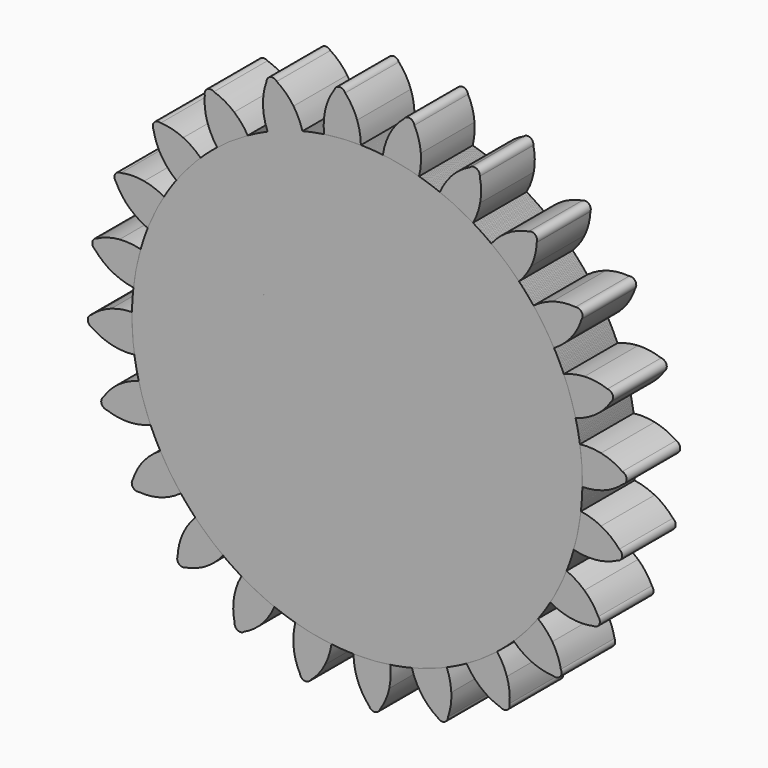
from build123d import *

# Parameters (mm, degrees)
F1_DEPTH = 16
F2_COUNT = 24


with BuildPart() as f1:
    # F0 (on Front) → F1 (new body)
    with BuildSketch(Plane.XZ):
        with BuildLine():
            ThreePointArc((-7.884268, 53.13929), (-3.513522, 53.605979), (0.880747, 53.71378))
            ThreePointArc((0.880747, 53.71378), (0.646116, 56.230422), (0, 58.674))
            ThreePointArc((0, 58.674), (-1.190465, 61.197485), (-2.856441, 63.435721))
            ThreePointArc((-2.856441, 63.435721), (-4.211908, 64.261304), (-5.44802, 63.26586))
            ThreePointArc((-5.44802, 63.26586), (-6.807595, 60.829318), (-7.658494, 58.172036))
            ThreePointArc((-7.658494, 58.172036), (-7.980131, 55.665028), (-7.884268, 53.13929))
        make_face()
        with BuildLine():
            ThreePointArc((-7.884268, 53.13929), (-35.088425, -40.678597), (53.721, 0))
            ThreePointArc((53.721, 0), (38.296609, 37.673805), (0.880747, 53.71378))
            ThreePointArc((0.880747, 53.71378), (-3.513522, 53.605979), (-7.884268, 53.13929))
        make_face()
    extrude(amount=F1_DEPTH)


with BuildPart() as f2_1:
    # F2: instance of F1
    add(f1.part.rotate(Axis((0, 0, 0), (0, 1, 0)), 1 * 360 / F2_COUNT))


with BuildPart() as f2_2:
    # F2: instance of F1
    add(f1.part.rotate(Axis((0, 0, 0), (0, 1, 0)), 2 * 360 / F2_COUNT))


with BuildPart() as f2_3:
    # F2: instance of F1
    add(f1.part.rotate(Axis((0, 0, 0), (0, 1, 0)), 3 * 360 / F2_COUNT))


with BuildPart() as f2_4:
    # F2: instance of F1
    add(f1.part.rotate(Axis((0, 0, 0), (0, 1, 0)), 4 * 360 / F2_COUNT))


with BuildPart() as f2_5:
    # F2: instance of F1
    add(f1.part.rotate(Axis((0, 0, 0), (0, 1, 0)), 5 * 360 / F2_COUNT))


with BuildPart() as f2_6:
    # F2: instance of F1
    add(f1.part.rotate(Axis((0, 0, 0), (0, 1, 0)), 6 * 360 / F2_COUNT))


with BuildPart() as f2_7:
    # F2: instance of F1
    add(f1.part.rotate(Axis((0, 0, 0), (0, 1, 0)), 7 * 360 / F2_COUNT))


with BuildPart() as f2_8:
    # F2: instance of F1
    add(f1.part.rotate(Axis((0, 0, 0), (0, 1, 0)), 8 * 360 / F2_COUNT))


with BuildPart() as f2_9:
    # F2: instance of F1
    add(f1.part.rotate(Axis((0, 0, 0), (0, 1, 0)), 9 * 360 / F2_COUNT))


with BuildPart() as f2_10:
    # F2: instance of F1
    add(f1.part.rotate(Axis((0, 0, 0), (0, 1, 0)), 10 * 360 / F2_COUNT))


with BuildPart() as f2_11:
    # F2: instance of F1
    add(f1.part.rotate(Axis((0, 0, 0), (0, 1, 0)), 11 * 360 / F2_COUNT))


with BuildPart() as f2_12:
    # F2: instance of F1
    add(f1.part.rotate(Axis((0, 0, 0), (0, 1, 0)), 12 * 360 / F2_COUNT))


with BuildPart() as f2_13:
    # F2: instance of F1
    add(f1.part.rotate(Axis((0, 0, 0), (0, 1, 0)), 13 * 360 / F2_COUNT))


with BuildPart() as f2_14:
    # F2: instance of F1
    add(f1.part.rotate(Axis((0, 0, 0), (0, 1, 0)), 14 * 360 / F2_COUNT))


with BuildPart() as f2_15:
    # F2: instance of F1
    add(f1.part.rotate(Axis((0, 0, 0), (0, 1, 0)), 15 * 360 / F2_COUNT))


with BuildPart() as f2_16:
    # F2: instance of F1
    add(f1.part.rotate(Axis((0, 0, 0), (0, 1, 0)), 16 * 360 / F2_COUNT))


with BuildPart() as f2_17:
    # F2: instance of F1
    add(f1.part.rotate(Axis((0, 0, 0), (0, 1, 0)), 17 * 360 / F2_COUNT))


with BuildPart() as f2_18:
    # F2: instance of F1
    add(f1.part.rotate(Axis((0, 0, 0), (0, 1, 0)), 18 * 360 / F2_COUNT))


with BuildPart() as f2_19:
    # F2: instance of F1
    add(f1.part.rotate(Axis((0, 0, 0), (0, 1, 0)), 19 * 360 / F2_COUNT))


with BuildPart() as f2_20:
    # F2: instance of F1
    add(f1.part.rotate(Axis((0, 0, 0), (0, 1, 0)), 20 * 360 / F2_COUNT))


with BuildPart() as f2_21:
    # F2: instance of F1
    add(f1.part.rotate(Axis((0, 0, 0), (0, 1, 0)), 21 * 360 / F2_COUNT))


with BuildPart() as f2_22:
    # F2: instance of F1
    add(f1.part.rotate(Axis((0, 0, 0), (0, 1, 0)), 22 * 360 / F2_COUNT))


with BuildPart() as f2_23:
    # F2: instance of F1
    add(f1.part.rotate(Axis((0, 0, 0), (0, 1, 0)), 23 * 360 / F2_COUNT))


solid = Compound([f1.part, f2_1.part, f2_2.part, f2_3.part, f2_4.part, f2_5.part, f2_6.part, f2_7.part, f2_8.part, f2_9.part, f2_10.part, f2_11.part, f2_12.part, f2_13.part, f2_14.part, f2_15.part, f2_16.part, f2_17.part, f2_18.part, f2_19.part, f2_20.part, f2_21.part, f2_22.part, f2_23.part])
